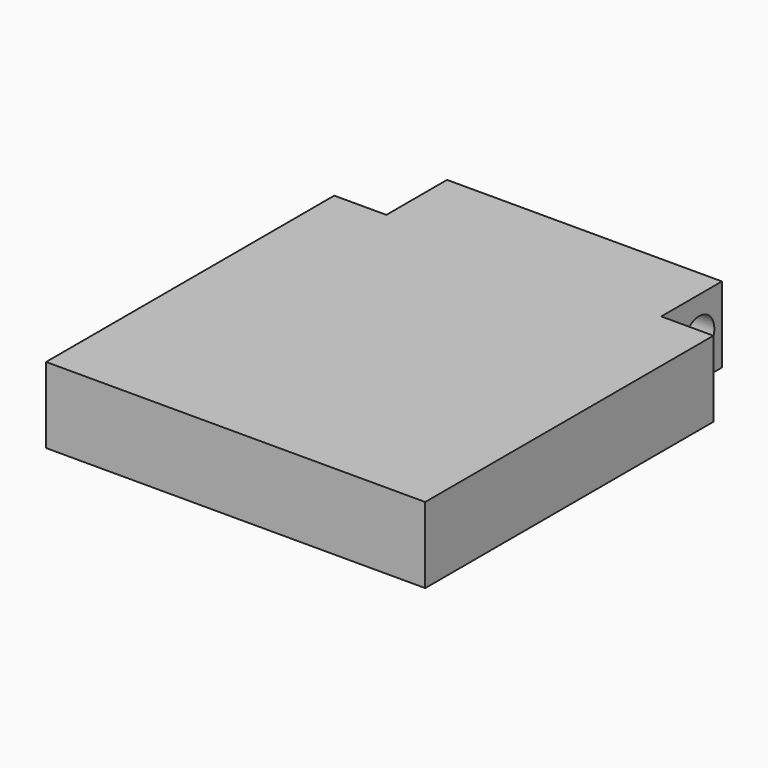
from build123d import *

# Parameters (mm, degrees)
CYLINDER003_R     = 2
CYLINDER003_DEPTH = 45
BOX002_W          = 5.5
BOX002_H          = 8
BOX002_DEPTH      = 8
BOX001_W          = 5.5
BOX001_H          = 8
BOX001_DEPTH      = 8
BOX003_W          = 35
BOX003_H          = 37
BOX003_DEPTH      = 5
BOX_W             = 40
BOX_H             = 46
BOX_DEPTH         = 8


with BuildPart() as obj1:
    # Cylinder003 → Cylinder003 (new body)
    with BuildSketch(Plane(origin=(-2, 43, 30), x_dir=(0, 0, -1), z_dir=(1, 0, 0))):
        Circle(CYLINDER003_R)
    extrude(amount=CYLINDER003_DEPTH)


with BuildPart() as hingeplate2:
    # Box002 → Box002 (new body)
    with BuildSketch(Plane(origin=(34.5, 38, 26), x_dir=(1, 0, 0), z_dir=(0, 0, 1))):
        with Locations((2.75, 4)):
            Rectangle(BOX002_W, BOX002_H)
    extrude(amount=BOX002_DEPTH)


with BuildPart() as hingeplate1:
    # Box001 → Box001 (new body)
    with BuildSketch(Plane(origin=(0, 38, 26), x_dir=(1, 0, 0), z_dir=(0, 0, 1))):
        with Locations((2.75, 4)):
            Rectangle(BOX001_W, BOX001_H)
    extrude(amount=BOX001_DEPTH)


with BuildPart() as mainbody001:
    # Box003 → Box003 (new body)
    with BuildSketch(Plane(origin=(2.5, 3, 26), x_dir=(1, 0, 0), z_dir=(0, 0, 1))):
        with Locations((17.5, 18.5)):
            Rectangle(BOX003_W, BOX003_H)
    extrude(amount=BOX003_DEPTH)


with BuildPart() as cut003:
    # Box → Box (new body)
    with BuildSketch(Plane.XY.offset(26)):
        with Locations((20, 23)):
            Rectangle(BOX_W, BOX_H)
    extrude(amount=BOX_DEPTH)

    # Cut: cut mainbody001
    add(mainbody001.part, mode=Mode.SUBTRACT)

    # Cut001: cut hingeplate1
    add(hingeplate1.part, mode=Mode.SUBTRACT)

    # Cut002: cut hingeplate2
    add(hingeplate2.part, mode=Mode.SUBTRACT)

    # Cut003: cut obj1
    add(obj1.part, mode=Mode.SUBTRACT)


solid = cut003.part
